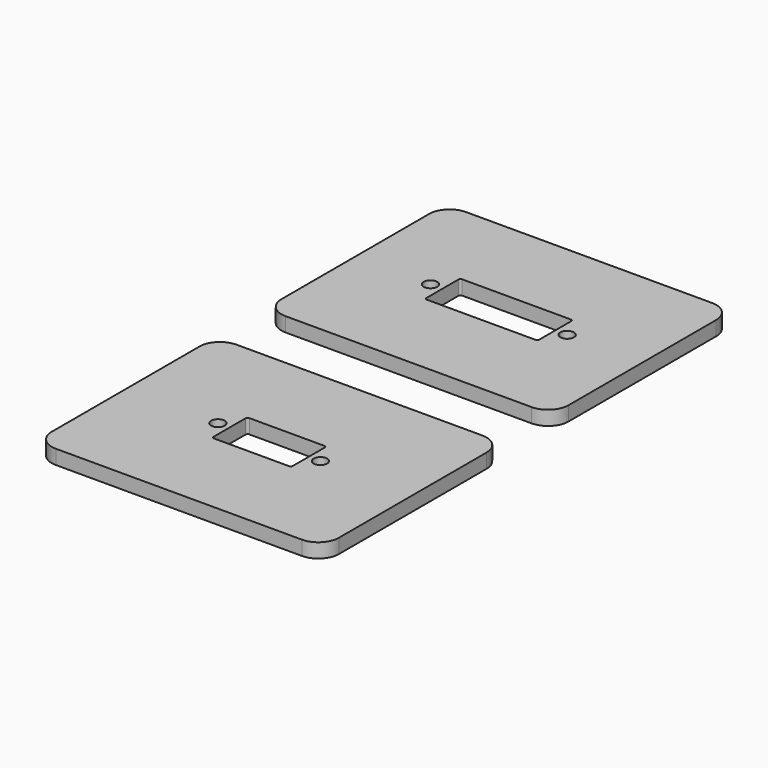
from build123d import *

# Parameters (mm, degrees)
F0_W     = 70
F0_H     = 55
F0_R     = 1.65
F0_W_2   = 27.5
F0_H_2   = 10.75
F0_W_3   = 19.3
F1_DEPTH = 3.5
F2_R     = 5
F3_R     = 0.5


with BuildPart() as f1:
    # F0 (on Top) → F1 (new body)
    with BuildSketch(Plane.XY):
        Rectangle(F0_W, F0_H)
        with Locations((-16.665, 0)):
            Circle(F0_R, mode=Mode.SUBTRACT)
        Rectangle(F0_W_2, F0_H_2, mode=Mode.SUBTRACT)
        with Locations((16.665, 0)):
            Circle(F0_R, mode=Mode.SUBTRACT)
        with Locations((0, -70)):
            Rectangle(F0_W, F0_H)
        with Locations((-12.5, -70)):
            Circle(F0_R, mode=Mode.SUBTRACT)
        with Locations((0, -70)):
            Rectangle(F0_W_3, F0_H_2, mode=Mode.SUBTRACT)
        with Locations((12.5, -70)):
            Circle(F0_R, mode=Mode.SUBTRACT)
    extrude(amount=F1_DEPTH)

    # F2
    f2_edges = [f1.edges().sort_by_distance(p)[0] for p in [
        (35, 27.5, 1.75),
        (35, -27.5, 1.75),
        (35, -42.5, 1.75),
        (35, -97.5, 1.75),
        (-35, -97.5, 1.75),
        (-35, -42.5, 1.75),
        (-35, -27.5, 1.75),
        (-35, 27.5, 1.75),
    ]]
    fillet(f2_edges, radius=F2_R)

    # F3
    f3_edges = [f1.edges().sort_by_distance(p)[0] for p in [
        (13.75, -5.375, 1.75),
        (13.75, 5.375, 1.75),
        (-13.75, 5.375, 1.75),
        (-13.75, -5.375, 1.75),
        (-9.65, -64.625, 1.75),
        (9.65, -64.625, 1.75),
        (9.65, -75.375, 1.75),
        (-9.65, -75.375, 1.75),
    ]]
    fillet(f3_edges, radius=F3_R)


solid = f1.part
